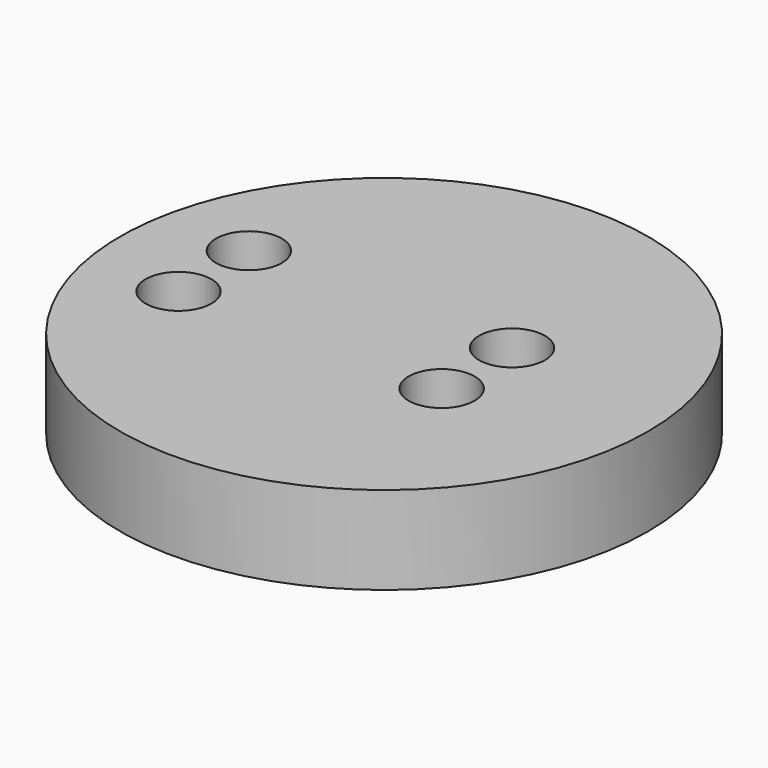
from build123d import *

# Parameters (mm, degrees)
F1_R     = 9
F2_DEPTH = 3
F4_R     = 0.975
F6_R     = 1.125
F7_DEPTH = 3


with BuildPart() as f2:
    # F1 (on Top) → F2 (new body)
    with BuildSketch(Plane.XY):
        Circle(F1_R)
    extrude(amount=F2_DEPTH)

    # F5: sweep along a path in F3
    with BuildLine(Plane(origin=(0, 0, 0), x_dir=(1, 0, 0), z_dir=(0, 0, -1))) as f5_path:
        CenterArc((0, 0), 6, 0, 360)
    # F4 (on Front) → F5 (sweep, cut)
    with BuildSketch(Plane.XZ):
        with Locations((3.5, 0)):
            Circle(F4_R)
        with Locations((6, 0)):
            Circle(F4_R)
    sweep(path=f5_path.line, mode=Mode.SUBTRACT)

    # F6 (on face) → F7 (cut, through all)
    with BuildSketch(Plane(origin=(0, 0, 0), x_dir=(1, 0, 0), z_dir=(0, 0, -1))):
        with Locations((-5.8094750193, 1.5)):
            Circle(F6_R)
        with Locations((-5.8094750193, -1.5)):
            Circle(F6_R)
        with Locations((3.1622776602, 1.5)):
            Circle(F6_R)
        with Locations((3.1622776602, -1.5)):
            Circle(F6_R)
    extrude(amount=-F7_DEPTH, mode=Mode.SUBTRACT)


solid = f2.part
